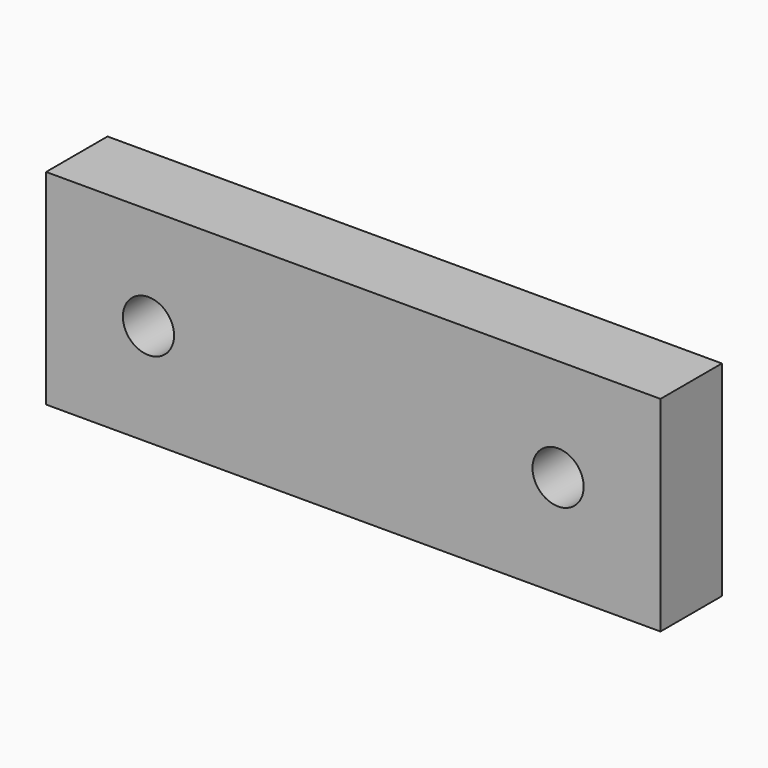
from build123d import *

# Parameters (mm, degrees)
F0_W     = 120
F0_H     = 40
F1_DEPTH = 7.5
F2_R     = 5
F3_DEPTH = 25


with BuildPart() as f1:
    # F0 (on Front) → F1 (new body, symmetric)
    with BuildSketch(Plane.XZ):
        with Locations((60, 20)):
            Rectangle(F0_W, F0_H)
    extrude(amount=F1_DEPTH, both=True)

    # F2 (on face) → F3 (cut, symmetric)
    with BuildSketch(Plane.XZ.offset(7.5)):
        with Locations((20, 20)):
            Circle(F2_R)
        with Locations((100, 20)):
            Circle(F2_R)
    extrude(amount=F3_DEPTH, both=True, mode=Mode.SUBTRACT)


solid = f1.part
